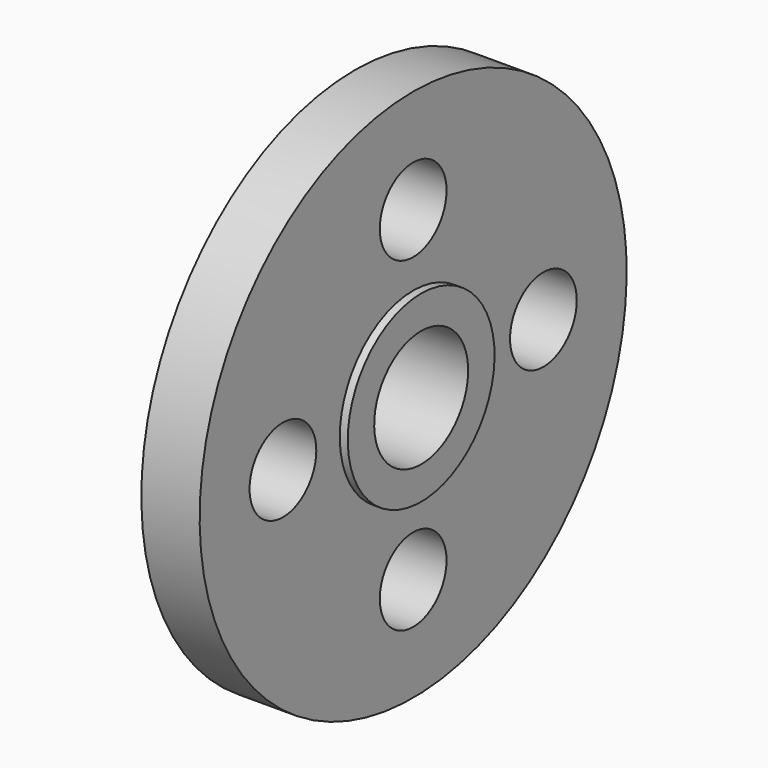
from build123d import *

# Parameters (mm, degrees)
F2_R     = 7.9375
F3_DEPTH = 14.352


with BuildPart() as f1:
    # F0 (on Front) → F1 (revolve)
    with BuildSketch(Plane.XZ):
        Polygon((3.2512, 15.0876), (0, 15.0876), (0, 11.176), (15.875, 11.176), (15.875, 17.4625), (14.351, 17.4625), (14.351, 50.8), (3.2512, 50.8), align=None)
    revolve(axis=Axis((-0.422707, 0, 0), (1, 0, 0)))

    # F2 (on face) → F3 (cut, through all)
    with BuildSketch(Plane.YZ.offset(14.351)):
        with Locations((0, 30.988)):
            Circle(F2_R)
        with Locations((-30.988, 0)):
            Circle(F2_R)
        with Locations((0, -30.988)):
            Circle(F2_R)
        with Locations((30.988, 0)):
            Circle(F2_R)
    extrude(amount=-F3_DEPTH, mode=Mode.SUBTRACT)


solid = f1.part
